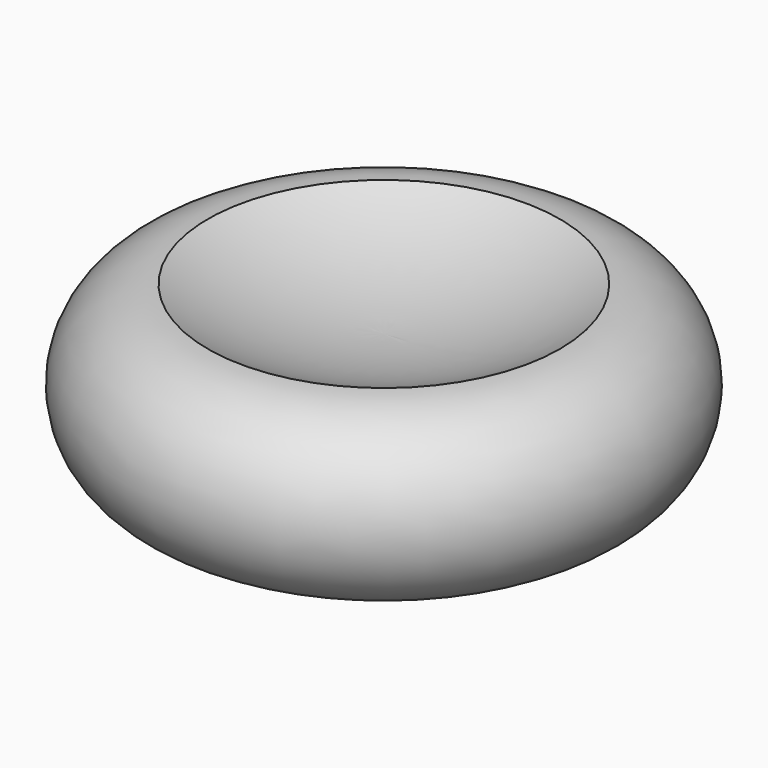
from build123d import *


with BuildPart() as f1:
    # F0 (on Front) → F1 (revolve)
    with BuildSketch(Plane.XZ):
        with BuildLine():
            ThreePointArc((-13.273361, 3.603468), (-2.965597, 2.334524), (6.726639, -1.396532))
            ThreePointArc((6.726639, -1.396532), (16.726639, 8.603468), (6.726639, 18.603468))
            ThreePointArc((6.726639, 18.603468), (-2.965597, 14.872411), (-13.273361, 13.603468))
            Line((-13.273361, 13.603468), (-13.273361, 3.603468))
        make_face()
    revolve(axis=Axis((-13.273361, 0, 8.603468), (0, 0, -1)))


solid = f1.part
